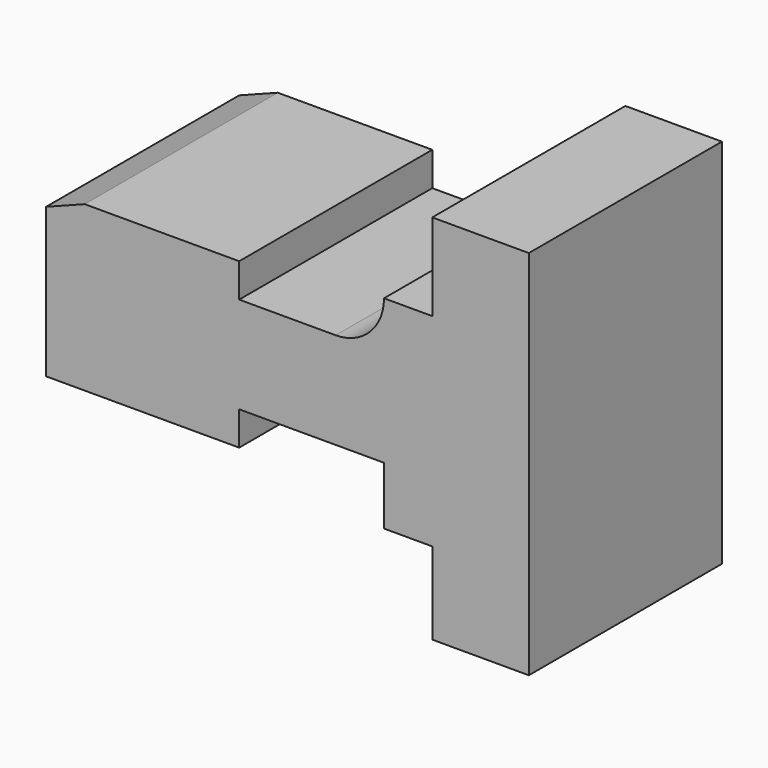
from build123d import *

# Parameters (mm, degrees)
F1_DEPTH = 25


with BuildPart() as f1:
    # F0 (on Front) → F1 (new body)
    with BuildSketch(Plane.XZ):
        with BuildLine():
            Line((-24.272264, 6.957319), (-24.272264, -8.5))
            Line((-24.272264, -8.5), (-4.272264, -8.5))
            Line((-4.272264, -8.5), (-4.272264, -5))
            Line((-4.272264, -5), (10.727736, -5))
            Line((10.727736, -5), (10.727736, -11))
            Line((10.727736, -11), (15.727736, -11))
            Line((15.727736, -11), (15.727736, -19.5))
            Line((15.727736, -19.5), (25.727736, -19.5))
            Line((25.727736, -19.5), (25.727736, 19))
            Line((25.727736, 19), (15.727736, 19))
            Line((15.727736, 19), (15.727736, 10))
            Line((15.727736, 10), (10.727736, 10))
            ThreePointArc((10.727736, 10), (9.263269, 6.464466), (5.727736, 5))
            Line((5.727736, 5), (-4.272264, 5))
            Line((-4.272264, 5), (-4.272264, 8.5))
            Line((-4.272264, 8.5), (-20.272264, 8.5))
            Line((-20.272264, 8.5), (-24.272264, 6.957319))
        make_face()
    extrude(amount=F1_DEPTH)


solid = f1.part
